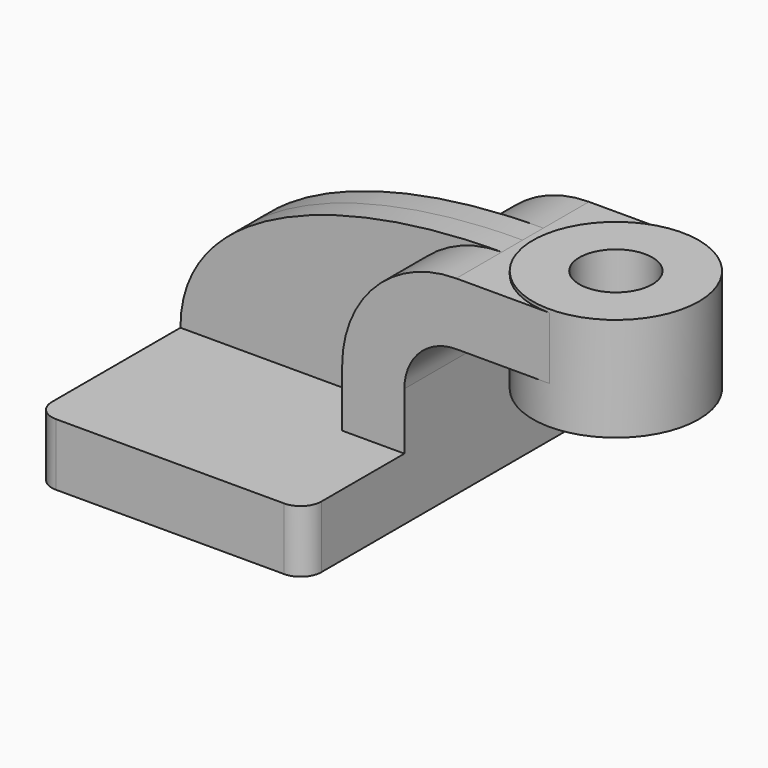
from build123d import *

# Parameters (mm, degrees)
F1_DEPTH = 63.5
F0_W     = 25.4
F0_H     = 19.05
F2_DEPTH = 25.4
F3_DEPTH = 7.9375
F5_R     = 6.35
F6_R     = 11.1630975277
F7_DEPTH = 35


with BuildPart() as f1:
    # F0 (on Front) → F1 (new body, symmetric)
    with BuildSketch(Plane.XZ):
        Polygon((22.225, 9.525), (-41.275, 9.525), (-41.275, -9.525), (41.275, -9.525), (41.275, 9.525), align=None)
    extrude(amount=F1_DEPTH, both=True)

    # F0 (on Front) → F2 (join, symmetric)
    with BuildSketch(Plane.XZ):
        with BuildLine():
            Line((22.225, 27.0002), (22.225, 9.525))
            Line((22.225, 9.525), (41.275, 9.525))
            Line((41.275, 9.525), (41.275, 27.0002))
            ThreePointArc((41.275, 27.0002), (45.9246798487, 38.2255201513), (57.15, 42.8752))
            Line((57.15, 42.8752), (60.325, 42.8752))
            Line((60.325, 42.8752), (60.325, 61.9252))
            Line((60.325, 61.9252), (57.15, 61.9252))
            ThreePointArc((57.15, 61.9252), (32.4542956671, 51.6959043329), (22.225, 27.0002))
        make_face()
        with Locations((73.025, 52.4002)):
            Rectangle(F0_W, F0_H)
    extrude(amount=F2_DEPTH, both=True)

    # F0 (on Front) → F3 (join, symmetric)
    with BuildSketch(Plane.XZ):
        with BuildLine():
            add(Edge.make_bspline(
                [(-41.275, 9.525), (-41.275, 45.1444163918), (8.36633984, 62.1046647429), (57.15, 61.9252)],
                knots=[0, 0, 0, 0, 111.5045361635, 111.5045361635, 111.5045361635, 111.5045361635], degree=3))
            Line((-41.275, 9.525), (22.225, 9.525))
            Line((22.225, 9.525), (22.225, 27.0002))
            ThreePointArc((22.225, 27.0002), (32.4542956671, 51.6959043329), (57.15, 61.9252))
        make_face()
    extrude(amount=F3_DEPTH, both=True)

    # F0 (on Front) → F4 (revolve)
    with BuildSketch(Plane.XZ):
        Polygon((85.725, 62.9158), (85.725, 61.9252), (85.725, 42.8752), (85.725, 31.1658), (111.125, 31.1658), (111.125, 62.9158), align=None)
    revolve(axis=Axis((85.725, 0, 47.0408), (0, 0, 1)))

    # F5
    f5_edges = [f1.edges().sort_by_distance(p)[0] for p in [
        (41.275, 63.5, 0),
        (-41.275, 63.5, 0),
        (-41.275, -63.5, 0),
        (41.275, -63.5, 0),
    ]]
    fillet(f5_edges, radius=F5_R)

    # F6 (on face) → F7 (cut)
    with BuildSketch(Plane.XY.offset(62.9158)):
        with Locations((85.725, 0)):
            Circle(F6_R)
    extrude(amount=-F7_DEPTH, mode=Mode.SUBTRACT)


solid = f1.part
